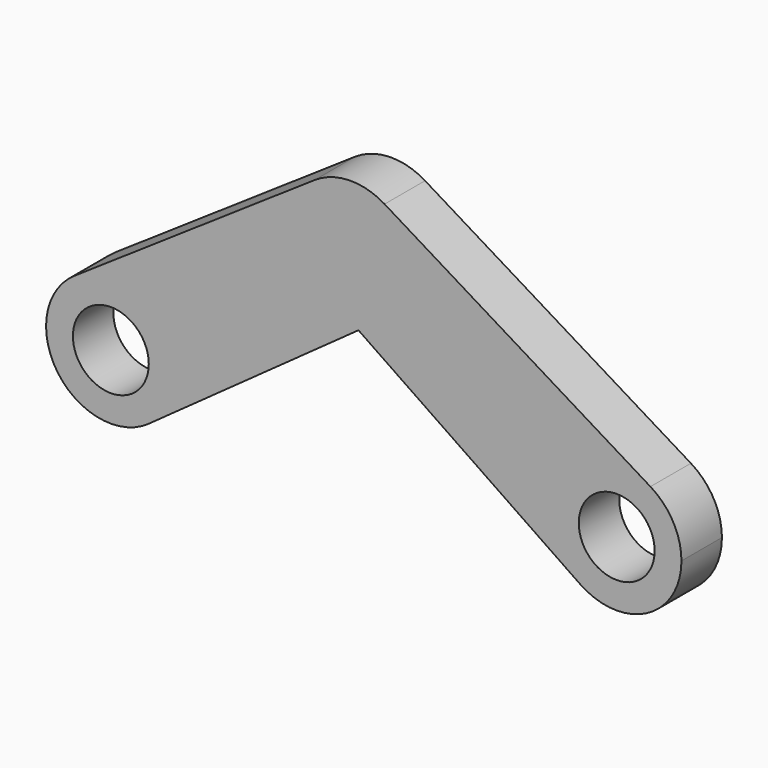
from build123d import *

# Parameters (mm, degrees)
F0_R     = 4.7625
F1_DEPTH = 6.35


with BuildPart() as f1:
    # F0 (on Front) → F1 (new body)
    with BuildSketch(Plane.XZ):
        with BuildLine():
            ThreePointArc((4.738602, -6.603789), (7.231174, -3.711403), (8.128, 0))
            ThreePointArc((8.128, 0), (3.811763, 7.178777), (-4.552818, 6.733219))
            ThreePointArc((-4.552818, 6.733219), (-6.669151, -4.646161), (4.738602, -6.603789))
        make_face()
        Circle(F0_R, mode=Mode.SUBTRACT)
        with BuildLine():
            ThreePointArc((-4.552818, 6.733219), (3.811763, 7.178777), (8.128, 0))
            ThreePointArc((8.128, 0), (7.231174, -3.711403), (4.738602, -6.603789))
            Line((4.738602, -6.603789), (31.084317, 12.30079))
            ThreePointArc((31.084317, 12.30079), (22.511223, 17.538296), (25.57627, 27.105683))
            Line((25.57627, 27.105683), (-4.552818, 6.733219))
        make_face()
        with BuildLine():
            ThreePointArc((34.364274, 27.309869), (29.940288, 28.498271), (25.57627, 27.105683))
            ThreePointArc((25.57627, 27.105683), (22.511223, 17.538296), (31.084317, 12.30079))
            ThreePointArc((31.084317, 12.30079), (36.204797, 14.973377), (38.257088, 20.372464))
            ThreePointArc((38.257088, 20.372464), (37.217387, 24.34995), (34.364274, 27.309869))
        make_face()
        with Locations((30.129088, 20.372464)):
            Circle(F0_R, mode=Mode.SUBTRACT)
        with Locations((30.129088, 20.372464)):
            Circle(F0_R)
        with BuildLine():
            ThreePointArc((38.257088, 20.372464), (36.204797, 14.973377), (31.084317, 12.30079))
            Line((31.084317, 12.30079), (58.915163, -6.711457))
            ThreePointArc((58.915163, -6.711457), (56.67333, 4.411458), (67.735186, 6.937405))
            Line((67.735186, 6.937405), (34.364274, 27.309869))
            ThreePointArc((34.364274, 27.309869), (37.217387, 24.34995), (38.257088, 20.372464))
        make_face()
        with BuildLine():
            ThreePointArc((67.735186, 6.937405), (56.67333, 4.411458), (58.915163, -6.711457))
            ThreePointArc((58.915163, -6.711457), (67.294656, -7.187835), (71.628, 0))
            ThreePointArc((71.628, 0), (70.588299, 3.977486), (67.735186, 6.937405))
        make_face()
        with Locations((63.5, 0)):
            Circle(F0_R, mode=Mode.SUBTRACT)
    extrude(amount=F1_DEPTH)


solid = f1.part
